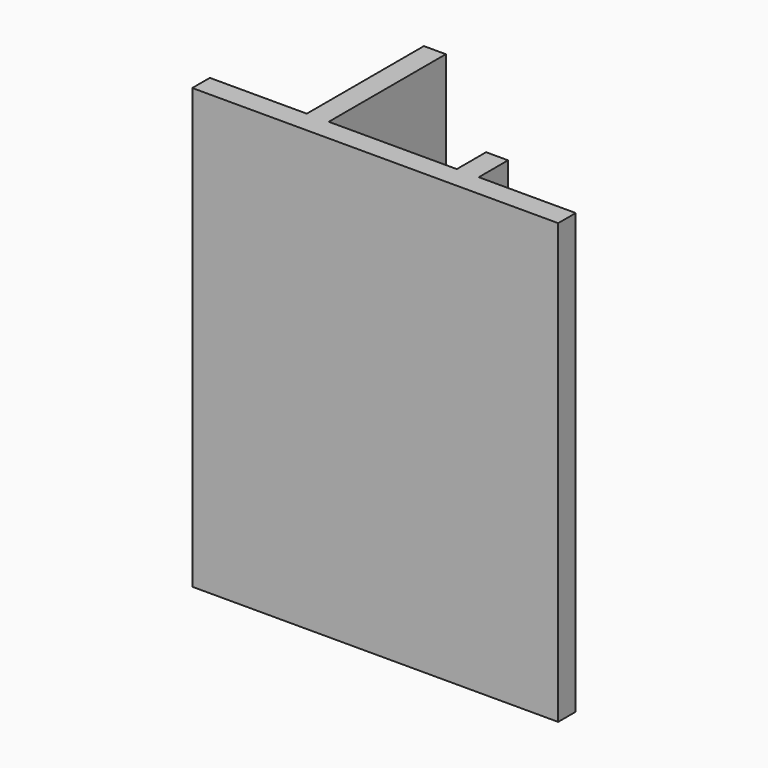
from build123d import *

# Parameters (mm, degrees)
PAD_DEPTH = 60


with BuildPart() as part:
    # Sketch → Pad (new body)
    with BuildSketch(Plane.XY):
        Polygon((-24.88, -4.7), (25.12, -4.7), (25.12, -1.7), (11.87, -1.7), (11.87, 3.3), (8.87, 3.3), (8.87, -1.7), (-8.63, -1.7), (-8.63, 18.3), (-11.63, 18.3), (-11.63, -1.7), (-24.88, -1.7), align=None)
    extrude(amount=PAD_DEPTH)


solid = part.part
